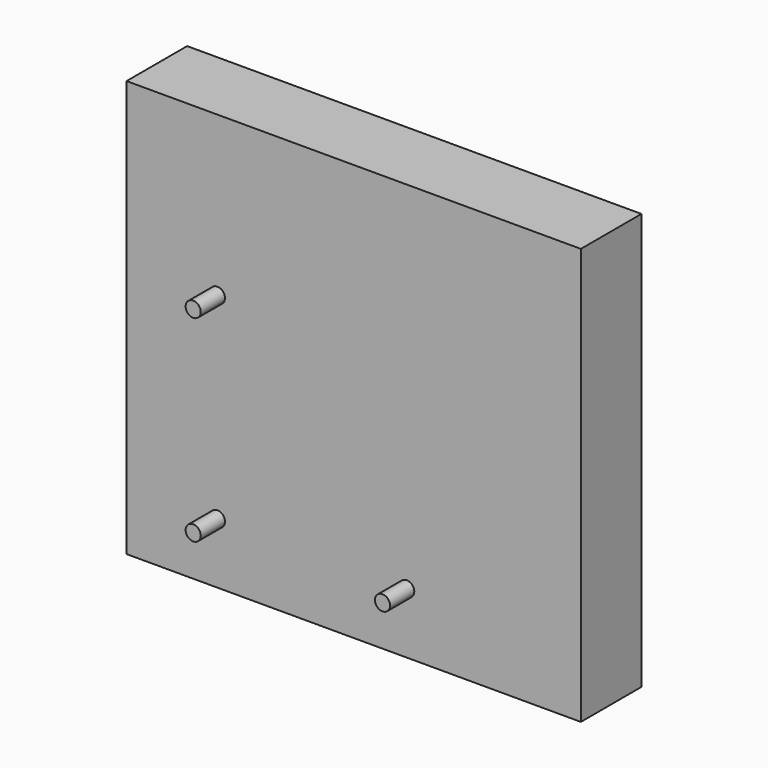
from build123d import *

# Parameters (mm, degrees)
F0_W          = 10
F0_H          = 40
F1_DEPTH      = 30
F1_DEPTH_BACK = 30
F2_R          = 1
F3_DEPTH      = 4
F4_DEPTH      = 15


with BuildPart() as f1:
    # F0 (on Right) → F1 (new body, two sides)
    with BuildSketch(Plane.YZ) as f1_sk:
        Rectangle(F0_W, F0_H)
    extrude(amount=F1_DEPTH)
    extrude(f1_sk.sketch, amount=-F1_DEPTH_BACK)

    # F2 (on face) → F3 (join)
    with BuildSketch(Plane.XZ.offset(5)):
        with Locations((-18, 14)):
            Circle(F2_R)
        with Locations((-18, -12)):
            Circle(F2_R)
        with Locations((7, -12)):
            Circle(F2_R)
    extrude(amount=F3_DEPTH)

    # F4 (add): a face of the model
    f4_faces = [f1.faces().sort_by_distance(p)[0] for p in [
        (0, 0, 20),
    ]]
    extrude(f4_faces, amount=F4_DEPTH)


solid = f1.part
